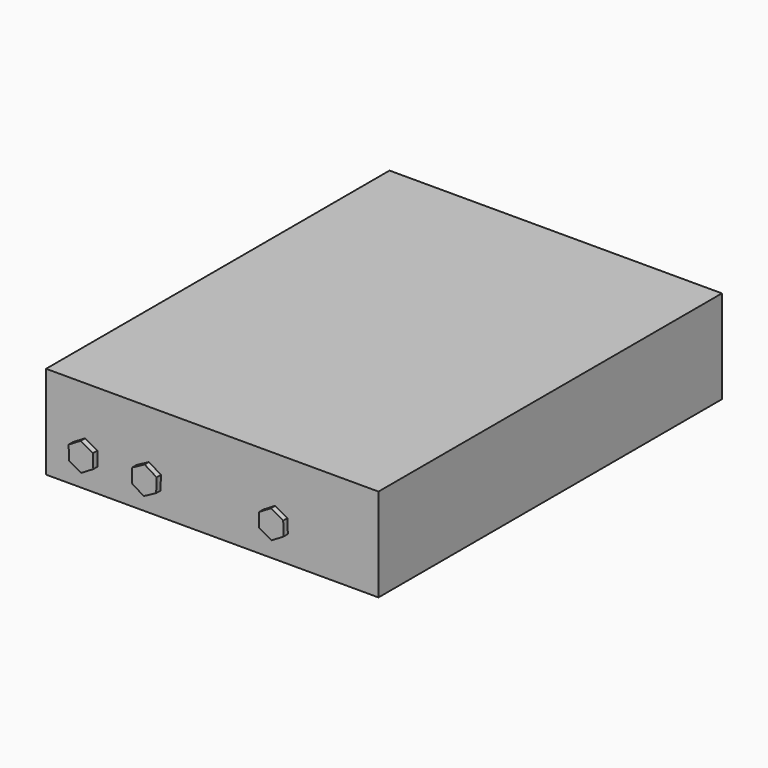
from build123d import *

# Parameters (mm, degrees)
F0_W     = 122.85
F0_H     = 34.45
F2_DEPTH = 158.65
F3_DEPTH = 2
F7_DEPTH = 2


with BuildPart() as f2:
    # F0 (on Front) → F2 (new body)
    with BuildSketch(Plane.XZ):
        Rectangle(F0_W, F0_H)
    extrude(amount=-F2_DEPTH)

    # F1 (on Front) → F3 (join)
    with BuildSketch(Plane.XZ):
        Polygon((-46.840929, -11.1012), (-42.385265, -8.427801), (-42.472665, -3.232384), (-47.015728, -0.710365), (-51.471391, -3.383764), (-51.383992, -8.579181), align=None)
        Polygon((-23.726419, -11.12884), (-19.144532, -8.678063), (-18.976023, -3.484643), (-23.389402, -0.742001), (-27.97129, -3.192778), (-28.139798, -8.386198), align=None)
        Polygon((23.452608, -10.195813), (27.906654, -7.519719), (27.816112, -2.324356), (23.271524, 0.194914), (18.817478, -2.48118), (18.90802, -7.676543), align=None)
    extrude(amount=F3_DEPTH)

    # F6 (on face) → F7 (join)
    with BuildSketch(Plane(origin=(0, 158.65, 0), x_dir=(-1, 0, 0), z_dir=(0, 1, 0))):
        Polygon((37.586212, -9.593843), (42.029951, -12.287017), (46.584177, -9.785213), (46.694665, -4.590235), (42.250926, -1.897062), (37.696699, -4.398866), align=None)
        Polygon((16.800624, -12.363649), (21.244363, -9.670475), (21.244363, -4.474323), (16.690137, -1.972519), (12.246398, -4.665692), (12.246398, -9.861845), align=None)
        Polygon((-21.518063, -9.199932), (-17.018063, -11.798008), (-12.518063, -9.199932), (-12.518063, -4.00378), (-17.018063, -1.405703), (-21.518063, -4.00378), align=None)
        Polygon((-42.418962, -1.405703), (-46.918962, -4.00378), (-46.918962, -9.199932), (-42.418962, -11.798008), (-37.918962, -9.199932), (-37.918962, -4.00378), align=None)
    extrude(amount=F7_DEPTH)


solid = f2.part
